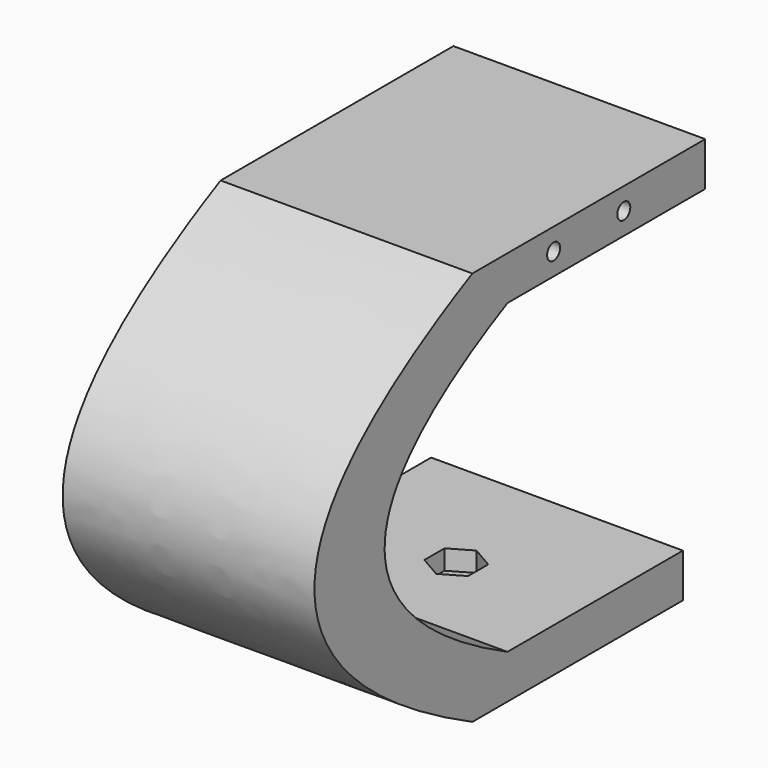
from build123d import *

# Parameters (mm, degrees)
PAD066_DEPTH            = 57.4
POCKET083_DEPTH         = 4.5
SKETCH144_R             = 3.1
POCKET097_DEPTH         = 10
POCKET097_FACE16_W      = 10
POCKET097_FACE16_H      = 57.4
PAD073_DEPTH            = 6.35
SKETCH147_R             = 1.85
POCKET099_DEPTH         = 57.401
BODY017_PLACEMENT_ANGLE = 270


with BuildPart() as part:
    # Sketch126 → Pad066 (new body)
    with BuildSketch(Plane.XY):
        with BuildLine():
            Line((10, 10), (10, 60))
            Line((10, 60), (0, 60))
            Line((0, 60), (0, 0))
            add(Edge.make_bspline(
                [(0, 0), (45, -90), (90, 0)],
                knots=[0, 0, 0, 1, 1, 1], degree=2))
            Line((90, 0), (90, 60))
            Line((90, 60), (80, 60))
            Line((80, 60), (80, 10))
            add(Edge.make_bspline(
                [(10, 10), (45, -60), (80, 10)],
                knots=[0, 0, 0, 1, 1, 1], degree=2))
        make_face()
    extrude(amount=PAD066_DEPTH)

    # Sketch127 (on Face1 of Pad066) → Pocket083 (cut)
    with BuildSketch(Plane.YZ.offset(10)):
        Polygon((28.425, 33.679646), (25.55, 28.7), (28.425, 23.720354), (34.175, 23.720354), (37.05, 28.7), (34.175, 33.679646), align=None)
    extrude(amount=-POCKET083_DEPTH, mode=Mode.SUBTRACT)

    # Sketch144 (on Face13 of Pocket083) → Pocket097 (cut)
    with BuildSketch(Plane(origin=(0, 0, 0), x_dir=(0, -1, 0), z_dir=(-1, 0, 0))):
        with Locations((-31.3, 28.7)):
            Circle(SKETCH144_R)
    extrude(amount=-POCKET097_DEPTH, mode=Mode.SUBTRACT)

    # Pocket097 Face16 → Pad073 (add)
    with BuildSketch(Plane(origin=(85, 60, 28.7), x_dir=(1, 0, 0), z_dir=(0, 1, 0))):
        Rectangle(POCKET097_FACE16_W, POCKET097_FACE16_H)
    extrude(amount=PAD073_DEPTH)

    # Sketch147 (on Face16 of Pad073) → Pocket099 (cut, through all)
    with BuildSketch(Plane.XY.offset(57.4)):
        with Locations((85, 43.15)):
            Circle(SKETCH147_R)
        with Locations((85, 23.15)):
            Circle(SKETCH147_R)
    extrude(amount=-POCKET099_DEPTH, mode=Mode.SUBTRACT)


with BuildPart() as part_1:
    # Body017 placement: moved
    add(part.part.moved(Location((-71.28, -233.15, -123.29))).rotate(Axis((-71.28, -233.15, -123.29), (0, 1, 0)), BODY017_PLACEMENT_ANGLE))


solid = part_1.part
